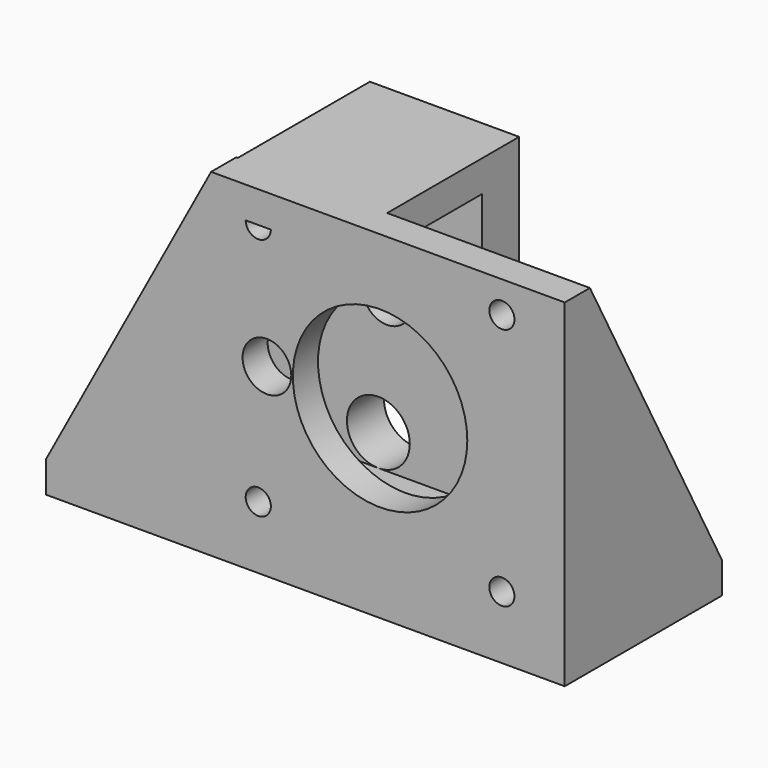
from build123d import *

# Parameters (mm, degrees)
CYLINDER031_R              = 3.1
CYLINDER031_DEPTH          = 32.5
EXTRUDE002_DEPTH           = 10
CYLINDER038_R              = 2.5
CYLINDER038_DEPTH          = 23
CYLINDER032_R              = 4
CYLINDER032_DEPTH          = 10
EXTRUDE005_DEPTH           = 4
EXTRUDE005_PLACEMENT_ANGLE = 90
CYLINDER019_R              = 11.1
CYLINDER019_DEPTH          = 10
CYLINDER015_R              = 1.6
CYLINDER015_DEPTH          = 10
CYLINDER016_R              = 1.6
CYLINDER016_DEPTH          = 10
CYLINDER017_R              = 1.6
CYLINDER017_DEPTH          = 10
CYLINDER018_R              = 1.6
CYLINDER018_DEPTH          = 10
BOX002_W                   = 44
BOX002_H                   = 4
BOX002_DEPTH               = 43
EXTRUDE001_DEPTH           = 4
EXTRUDE006_DEPTH           = 5.9
EXTRUDE006_PLACEMENT_ANGLE = 90
CYLINDER021_R              = 6
CYLINDER021_DEPTH          = 6
CYLINDER020_R              = 2.1
CYLINDER020_DEPTH          = 10
BOX003_W                   = 66
BOX003_H                   = 25
BOX003_DEPTH               = 4
BOX_W                      = 19
BOX_H                      = 25
BOX_DEPTH                  = 4
CYLINDER028_R              = 11.1
CYLINDER028_DEPTH          = 10
CYLINDER025_R              = 1.6
CYLINDER025_DEPTH          = 10
CYLINDER024_R              = 1.6
CYLINDER024_DEPTH          = 10
CYLINDER023_R              = 1.6
CYLINDER023_DEPTH          = 10
CYLINDER029_R              = 1.6
CYLINDER029_DEPTH          = 10
BOX005_W                   = 44
BOX005_H                   = 4
BOX005_DEPTH               = 43


with BuildPart() as cylinder031:
    # Cylinder031 → Cylinder031 (new body)
    with BuildSketch(Plane(origin=(7.1, -2.84478, 23.5), x_dir=(1, 0, 0), z_dir=(0, 1, 0))):
        Circle(CYLINDER031_R)
    extrude(amount=CYLINDER031_DEPTH)


with BuildPart() as extrude002:
    # Sketch001 → Extrude002 (new body)
    with BuildSketch(Plane.XY):
        with BuildLine():
            ThreePointArc((35.736492, 10), (36.2, 15), (35.736492, 20))
            ThreePointArc((35.736492, 20), (33.490746, 22.111711), (31.244999, 20))
            ThreePointArc((31.244999, 10), (31.8, 15), (31.244999, 20))
            ThreePointArc((31.244999, 10), (33.490746, 7.888289), (35.736492, 10))
        make_face()
    extrude(amount=-EXTRUDE002_DEPTH)


with BuildPart() as extrude002_1:
    # Extrude002 placement: moved
    add(extrude002.part.moved(Location((0, 0, 8))))


with BuildPart() as cylinder038:
    # Cylinder038 → Cylinder038 (new body)
    with BuildSketch(Plane(origin=(6, 27, 39), x_dir=(1, 0, 0), z_dir=(0, -1, 0))):
        Circle(CYLINDER038_R)
    extrude(amount=CYLINDER038_DEPTH)


with BuildPart() as cylinder032:
    # Cylinder032 → Cylinder032 (new body)
    with BuildSketch(Plane(origin=(6, 27, 8), x_dir=(1, 0, 0), z_dir=(0, -1, 0))):
        Circle(CYLINDER032_R)
    extrude(amount=CYLINDER032_DEPTH)


with BuildPart() as extrude005:
    # Sketch003 → Extrude005 (new body)
    with BuildSketch(Plane.YZ):
        Polygon((0, 0), (0, 43), (4, 43), (25, 4), (25, 0), align=None)
    extrude(amount=EXTRUDE005_DEPTH)


with BuildPart() as extrude005_1:
    # Extrude005 placement: moved
    add(extrude005.part.moved(Location((4, 0, 0))).rotate(Axis((4, 0, 0), (0, 0, 1)), EXTRUDE005_PLACEMENT_ANGLE))


with BuildPart() as cylinder019:
    # Cylinder019 → Cylinder019 (new body)
    with BuildSketch(Plane(origin=(21.5, -2, 23.5), x_dir=(1, 0, 0), z_dir=(0, 1, 0))):
        Circle(CYLINDER019_R)
    extrude(amount=CYLINDER019_DEPTH)


with BuildPart() as cylinder015:
    # Cylinder015 → Cylinder015 (new body)
    with BuildSketch(Plane(origin=(37, -3, 8), x_dir=(1, 0, 0), z_dir=(0, 1, 0))):
        Circle(CYLINDER015_R)
    extrude(amount=CYLINDER015_DEPTH)


with BuildPart() as cylinder016:
    # Cylinder016 → Cylinder016 (new body)
    with BuildSketch(Plane(origin=(6, -3, 8), x_dir=(1, 0, 0), z_dir=(0, 1, 0))):
        Circle(CYLINDER016_R)
    extrude(amount=CYLINDER016_DEPTH)


with BuildPart() as cylinder017:
    # Cylinder017 → Cylinder017 (new body)
    with BuildSketch(Plane(origin=(6, -3, 39), x_dir=(1, 0, 0), z_dir=(0, 1, 0))):
        Circle(CYLINDER017_R)
    extrude(amount=CYLINDER017_DEPTH)


with BuildPart() as cylinder018:
    # Cylinder018 → Cylinder018 (new body)
    with BuildSketch(Plane(origin=(37, -3, 39), x_dir=(1, 0, 0), z_dir=(0, 1, 0))):
        Circle(CYLINDER018_R)
    extrude(amount=CYLINDER018_DEPTH)


with BuildPart() as cut014:
    # Box002 → Box002 (new body)
    with BuildSketch(Plane.XY):
        with Locations((22, 2)):
            Rectangle(BOX002_W, BOX002_H)
    extrude(amount=BOX002_DEPTH)

    # Cut010: cut Cylinder018
    add(cylinder018.part, mode=Mode.SUBTRACT)

    # Cut011: cut Cylinder017
    add(cylinder017.part, mode=Mode.SUBTRACT)

    # Cut012: cut Cylinder016
    add(cylinder016.part, mode=Mode.SUBTRACT)

    # Cut013: cut Cylinder015
    add(cylinder015.part, mode=Mode.SUBTRACT)

    # Cut014: cut Cylinder019
    add(cylinder019.part, mode=Mode.SUBTRACT)


with BuildPart() as extrude001:
    # Sketch → Extrude001 (new body)
    with BuildSketch(Plane.YZ):
        Polygon((0, 0), (0, 43), (4, 43), (25, 4), (25, 0), align=None)
    extrude(amount=EXTRUDE001_DEPTH)


with BuildPart() as extrude001_1:
    # Extrude001 placement: moved
    add(extrude001.part.moved(Location((41, 0, 0))))


with BuildPart() as extrude006:
    # Sketch004 → Extrude006 (new body)
    with BuildSketch(Plane.YZ):
        Polygon((0, 0), (0, 43), (19, 43), (40, 4), (40, 0), align=None)
    extrude(amount=EXTRUDE006_DEPTH)


with BuildPart() as extrude006_1:
    # Extrude006 placement: moved
    add(extrude006.part.moved(Location((19.2, 19.1, 0))).rotate(Axis((19.2, 19.1, 0), (0, 0, 1)), EXTRUDE006_PLACEMENT_ANGLE))


with BuildPart() as cylinder021:
    # Cylinder021 → Cylinder021 (new body)
    with BuildSketch(Plane.XY.offset(10)):
        Circle(CYLINDER021_R)
    extrude(amount=CYLINDER021_DEPTH)


with BuildPart() as fusion004:
    # Cylinder020 → Cylinder020 (new body)
    with BuildSketch(Plane.XY):
        Circle(CYLINDER020_R)
    extrude(amount=CYLINDER020_DEPTH)

    # Fusion004: union Cylinder021
    add(cylinder021.part)


with BuildPart() as fusion004_1:
    # Fusion004 placement: moved
    add(fusion004.part.moved(Location((-7, 12, -7))))


with BuildPart() as cut029:
    # Box003 → Box003 (new body)
    with BuildSketch(Plane(origin=(-21, 0, 0), x_dir=(1, 0, 0), z_dir=(0, 0, 1))):
        with Locations((33, 12.5)):
            Rectangle(BOX003_W, BOX003_H)
    extrude(amount=BOX003_DEPTH)

    # Cut: cut Fusion004
    add(fusion004_1.part, mode=Mode.SUBTRACT)

    # Fusion: union Extrude005, Cut014, Extrude001, Extrude006
    add(extrude005_1.part)
    add(cut014.part)
    add(extrude001_1.part)
    add(extrude006_1.part)

    # Cut029: cut Cylinder032
    add(cylinder032.part, mode=Mode.SUBTRACT)


with BuildPart() as box:
    # Box → Box (new body)
    with BuildSketch(Plane(origin=(0.2, 0, 39), x_dir=(1, 0, 0), z_dir=(0, 0, 1))):
        with Locations((9.5, 12.5)):
            Rectangle(BOX_W, BOX_H)
    extrude(amount=BOX_DEPTH)


with BuildPart() as cylinder028:
    # Cylinder028 → Cylinder028 (new body)
    with BuildSketch(Plane(origin=(21.5, -2, 23.5), x_dir=(1, 0, 0), z_dir=(0, 1, 0))):
        Circle(CYLINDER028_R)
    extrude(amount=CYLINDER028_DEPTH)


with BuildPart() as cylinder025:
    # Cylinder025 → Cylinder025 (new body)
    with BuildSketch(Plane(origin=(37, -3, 8), x_dir=(1, 0, 0), z_dir=(0, 1, 0))):
        Circle(CYLINDER025_R)
    extrude(amount=CYLINDER025_DEPTH)


with BuildPart() as cylinder024:
    # Cylinder024 → Cylinder024 (new body)
    with BuildSketch(Plane(origin=(6, -3, 8), x_dir=(1, 0, 0), z_dir=(0, 1, 0))):
        Circle(CYLINDER024_R)
    extrude(amount=CYLINDER024_DEPTH)


with BuildPart() as cylinder023:
    # Cylinder023 → Cylinder023 (new body)
    with BuildSketch(Plane(origin=(6, -3, 39), x_dir=(1, 0, 0), z_dir=(0, 1, 0))):
        Circle(CYLINDER023_R)
    extrude(amount=CYLINDER023_DEPTH)


with BuildPart() as cylinder029:
    # Cylinder029 → Cylinder029 (new body)
    with BuildSketch(Plane(origin=(37, -3, 39), x_dir=(1, 0, 0), z_dir=(0, 1, 0))):
        Circle(CYLINDER029_R)
    extrude(amount=CYLINDER029_DEPTH)


with BuildPart() as cut032:
    # Box005 → Box005 (new body)
    with BuildSketch(Plane.XY):
        with Locations((22, 2)):
            Rectangle(BOX005_W, BOX005_H)
    extrude(amount=BOX005_DEPTH)

    # Cut017: cut Cylinder029
    add(cylinder029.part, mode=Mode.SUBTRACT)

    # Cut018: cut Cylinder023
    add(cylinder023.part, mode=Mode.SUBTRACT)

    # Cut021: cut Cylinder024
    add(cylinder024.part, mode=Mode.SUBTRACT)

    # Cut022: cut Cylinder025
    add(cylinder025.part, mode=Mode.SUBTRACT)

    # Cut016: cut Cylinder028
    add(cylinder028.part, mode=Mode.SUBTRACT)

    # Fusion008: union Box
    add(box.part)

    # Fusion009: union Cut029
    add(cut029.part)

    # Cut030: cut Cylinder038
    add(cylinder038.part, mode=Mode.SUBTRACT)

    # Cut031: cut Extrude002
    add(extrude002_1.part, mode=Mode.SUBTRACT)

    # Cut032: cut Cylinder031
    add(cylinder031.part, mode=Mode.SUBTRACT)


solid = cut032.part
